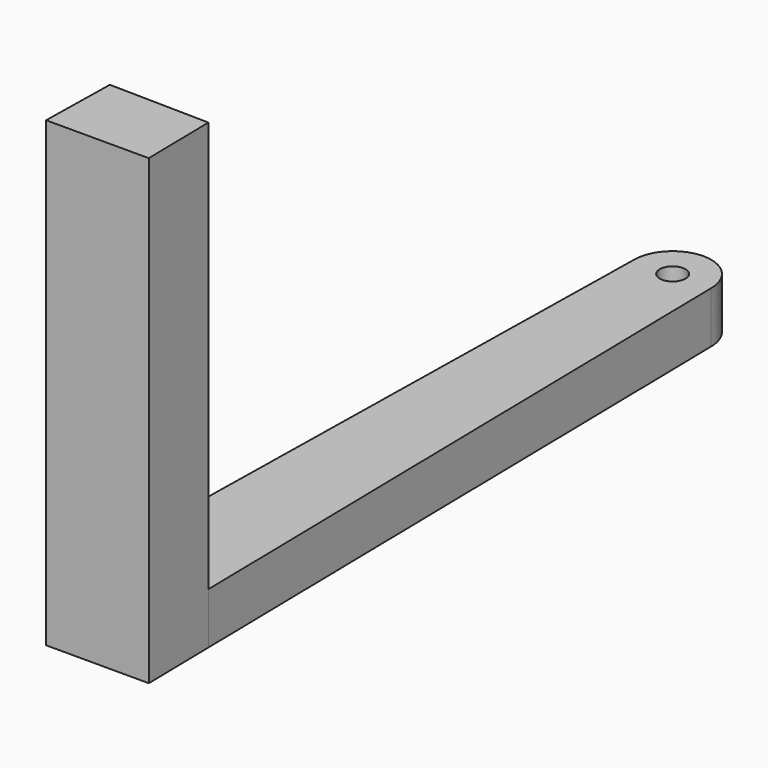
from build123d import *

# Parameters (mm, degrees)
F1_DEPTH = 2
F2_DEPTH = 18


with BuildPart() as f1:
    # F0 (on Top) → F1 (new body)
    with BuildSketch(Plane.XY):
        with BuildLine():
            Line((-1.945808, 3.034747), (0, 3))
            Line((0, 3), (0, 26.5))
            ThreePointArc((0, 26.5), (-1.06066, 26.93934), (-1.5, 28))
            Line((-1.5, 28), (-1.945808, 3.034747))
        make_face()
        with BuildLine():
            Line((0, 26.5), (0, 3))
            Line((0, 3), (1.947049, 2.965231))
            Line((1.947049, 2.965231), (1.5, 28))
            ThreePointArc((1.5, 28), (1.06066, 26.93934), (0, 26.5))
        make_face()
        with BuildLine():
            ThreePointArc((-1.5, 28), (-1.06066, 26.93934), (0, 26.5))
            ThreePointArc((0, 26.5), (1.06066, 26.93934), (1.5, 28))
            ThreePointArc((1.5, 28), (0, 29.5), (-1.5, 28))
        make_face()
        with BuildLine():
            ThreePointArc((0.5, 28), (0.353553, 27.646447), (0, 27.5))
            ThreePointArc((0, 27.5), (-0.353553, 28.353553), (0.5, 28))
        make_face(mode=Mode.SUBTRACT)
    extrude(amount=F1_DEPTH)

    # F0 (on Top) → F2 (join)
    with BuildSketch(Plane.XY):
        Polygon((0, 3), (0, 0), (2, 0), (1.947049, 2.965231), align=None)
        Polygon((-2, 0), (0, 0), (0, 3), (-1.945808, 3.034747), align=None)
    extrude(amount=F2_DEPTH)


solid = f1.part
